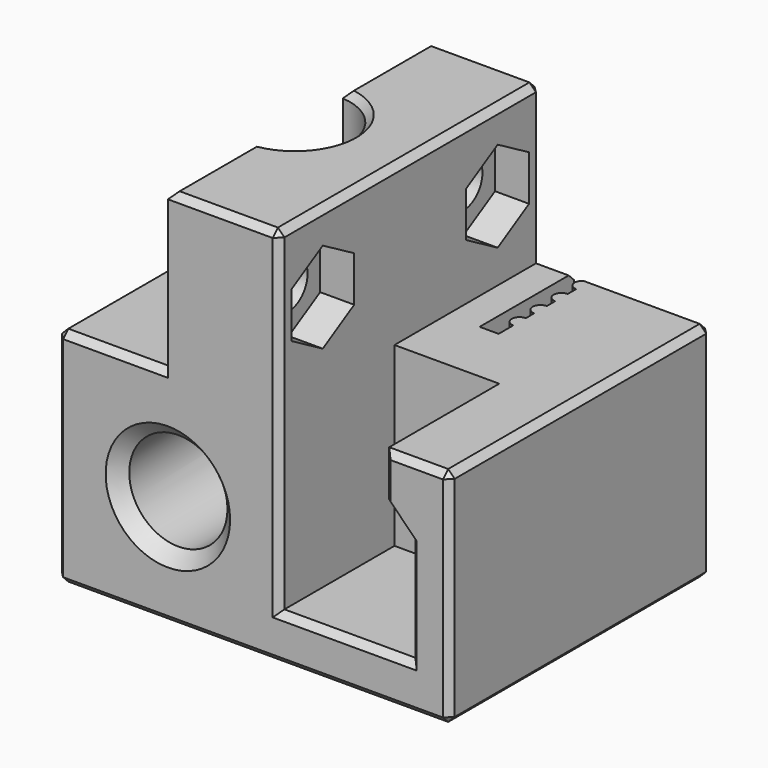
from build123d import *

# Parameters (mm, degrees)
F0_W      = 30
F0_H      = 25
F1_DEPTH  = 17
F3_DEPTH  = 11
F4_R      = 3.75
F5_DEPTH  = 25
F7_DEPTH  = 12
F9_DEPTH  = 12
F10_R     = 1.8
F11_DEPTH = 8.5
F12_R     = 1.8
F13_DEPTH = 2.6
F15_DEPTH = 8
F16_R     = 1.8
F17_DEPTH = 14
F18_R     = 1.8
F19_DEPTH = 2.5
F21_SIZE  = 0.5
F22_SIZE2 = 1
F22_SIZE  = 1
F23_R     = 1.35
F24_DEPTH = 5.0024289631


with BuildPart() as f1:
    # F0 (on Top) → F1 (new body)
    with BuildSketch(Plane.XY):
        Rectangle(F0_W, F0_H)
    extrude(amount=F1_DEPTH)

    # F2 (on face) → F3 (cut)
    with BuildSketch(Plane.XZ.offset(12.5)):
        Polygon((10, 17), (2, 17), (2, 3.5), (12, 3.5), (12, 11.5), (10, 13.5), align=None)
    extrude(amount=-F3_DEPTH, mode=Mode.SUBTRACT)

    # F4 (on face) → F5 (cut, through all)
    with BuildSketch(Plane.XZ.offset(12.5)):
        with Locations((-6.5, 8.5)):
            Circle(F4_R)
    extrude(amount=-F5_DEPTH, mode=Mode.SUBTRACT)

    # F6 (on face) → F7 (join)
    with BuildSketch(Plane.XY.offset(17)):
        Polygon((-6.5, -12.5), (2, -12.5), (2, -1.5), (2, 12.5), (-6.5, 12.5), align=None)
    extrude(amount=F7_DEPTH)

    # F8 (on face) → F9 (cut)
    with BuildSketch(Plane.XY.offset(29)):
        with BuildLine():
            Line((-6.5, 4.1892720131), (-6.5, -4.1892720131))
            ThreePointArc((-6.5, -4.1892720131), (-2.6, 0), (-6.5, 4.1892720131))
        make_face()
    extrude(amount=-F9_DEPTH, mode=Mode.SUBTRACT)

    # F10 (on face) → F11 (cut, through all)
    with BuildSketch(Plane(origin=(-6.5, 0, 0), x_dir=(0, -1, 0), z_dir=(-1, 0, 0))):
        with Locations((-8.3446360066, 23)):
            Circle(F10_R)
        with Locations((8.3446360066, 23)):
            Circle(F10_R)
    extrude(amount=-F11_DEPTH, mode=Mode.SUBTRACT)

    # F12 (on face) → F13 (cut)
    with BuildSketch(Plane.YZ.offset(2)):
        Polygon((11.3446360067, 21.2679491924), (11.3446360067, 24.7320508076), (8.3446360067, 26.4641016151), (5.3446360067, 24.7320508076), (5.3446360067, 21.2679491924), (8.3446360067, 19.5358983849), align=None)
        with Locations((8.3446360066, 23)):
            Circle(F12_R, mode=Mode.SUBTRACT)
        Polygon((-5.3446360065, 21.2679491924), (-5.3446360065, 24.7320508076), (-8.3446360065, 26.4641016151), (-11.3446360065, 24.7320508076), (-11.3446360065, 21.2679491924), (-8.3446360065, 19.5358983849), align=None)
        with Locations((-8.3446360066, 23)):
            Circle(F12_R, mode=Mode.SUBTRACT)
    extrude(amount=-F13_DEPTH, mode=Mode.SUBTRACT)

    # F14 (on face) → F15 (cut)
    with BuildSketch(Plane.XY.offset(17)):
        with BuildLine():
            Line((5.95, 12.5), (4.5, 12.5))
            Line((4.5, 12.5), (4.5, 3.5))
            Line((4.5, 3.5), (5.95, 3.5))
            Line((5.95, 3.5), (5.95, 4.9))
            ThreePointArc((5.95, 4.9), (5.35, 5.5), (5.95, 6.1))
            Line((5.95, 6.1), (5.95, 6.9))
            ThreePointArc((5.95, 6.9), (5.35, 7.5), (5.95, 8.1))
            Line((5.95, 8.1), (5.95, 8.9))
            ThreePointArc((5.95, 8.9), (5.35, 9.5), (5.95, 10.1))
            Line((5.95, 10.1), (5.95, 10.9))
            ThreePointArc((5.95, 10.9), (5.35, 11.5), (5.95, 12.1))
            Line((5.95, 12.1), (5.95, 12.5))
        make_face()
    extrude(amount=-F15_DEPTH, mode=Mode.SUBTRACT)

    # F16 (on face) → F17 (cut, through all)
    with BuildSketch(Plane(origin=(0, 12.5, 0), x_dir=(-1, 0, 0), z_dir=(0, 1, 0))):
        with Locations((-9.05, 6.5)):
            Circle(F16_R)
    extrude(amount=-F17_DEPTH, mode=Mode.SUBTRACT)

    # F18 (on face) → F19 (cut)
    with BuildSketch(Plane(origin=(0, 12.5, 0), x_dir=(-1, 0, 0), z_dir=(0, 1, 0))):
        Polygon((-7.3179491924, 9.5), (-10.7820508076, 9.5), (-12.5141016151, 6.5), (-10.7820508076, 3.5), (-7.3179491924, 3.5), (-5.5858983849, 6.5), align=None)
        with Locations((-9.05, 6.5)):
            Circle(F18_R, mode=Mode.SUBTRACT)
    extrude(amount=-F19_DEPTH, mode=Mode.SUBTRACT)

    # F21
    f21_edges = [f1.edges().sort_by_distance(p)[0] for p in [
        (0, -12.5, 0),
        (-15, 0, 0),
        (0, 12.5, 0),
        (15, 0, 0),
        (-15, 0, 17),
        (-10.75, 12.5, 17),
        (-15, 12.5, 8.5),
        (-15, -12.5, 8.5),
        (2, -12.5, 16.25),
        (7, -12.5, 3.5),
        (12, -12.5, 7.5),
        (11, -12.5, 12.5),
        (10, -12.5, 15.25),
        (15, -12.5, 8.5),
        (12.5, -12.5, 17),
        (15, 0, 17),
        (15, 12.5, 8.5),
        (10.475, 12.5, 17),
        (3.25, 12.5, 17),
        (2, 12.5, 23),
        (-6.5, 12.5, 23),
        (-2.25, 12.5, 29),
        (2, 0, 29),
        (-2.25, -12.5, 29),
        (-10.75, -12.5, 17),
        (-6.5, -8.344636, 29),
        (-2.6, 0, 29),
        (-6.5, 8.344636, 29),
    ]]
    chamfer(f21_edges, length=F21_SIZE)

    # F22
    f22_edges = [f1.edges().sort_by_distance(p)[0] for p in [
        (-2.75, 0, 8.5),
        (-10.25, -12.5, 8.5),
        (-10.25, 12.5, 8.5),
    ]]
    chamfer(f22_edges, length=F22_SIZE, length2=F22_SIZE2)

    # F23 (on face) → F24 (cut, through all)
    with BuildSketch(Plane(origin=(-15, 0, 0), x_dir=(0, -1, 0), z_dir=(-1, 0, 0))):
        with Locations((0, 8.5)):
            Circle(F23_R)
    extrude(amount=-F24_DEPTH, mode=Mode.SUBTRACT)


solid = f1.part
